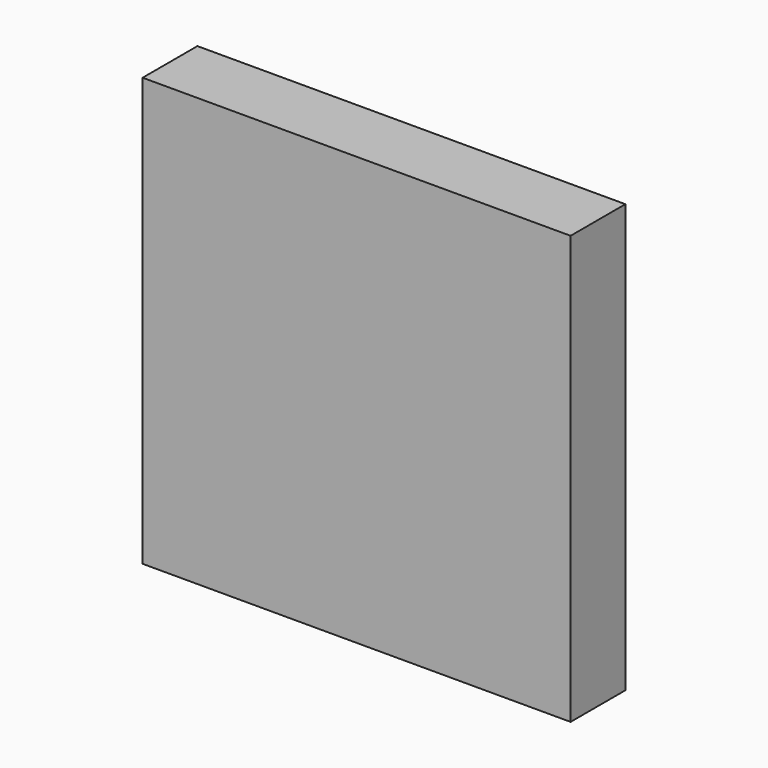
from build123d import *

# Parameters (mm, degrees)
SKETCH_W      = 50
SKETCH_H      = 8
EXTRUDE_DEPTH = 50


with BuildPart() as part:
    # Sketch → Extrude (new body)
    with BuildSketch(Plane.XY):
        Rectangle(SKETCH_W, SKETCH_H)
    extrude(amount=EXTRUDE_DEPTH)


solid = part.part
